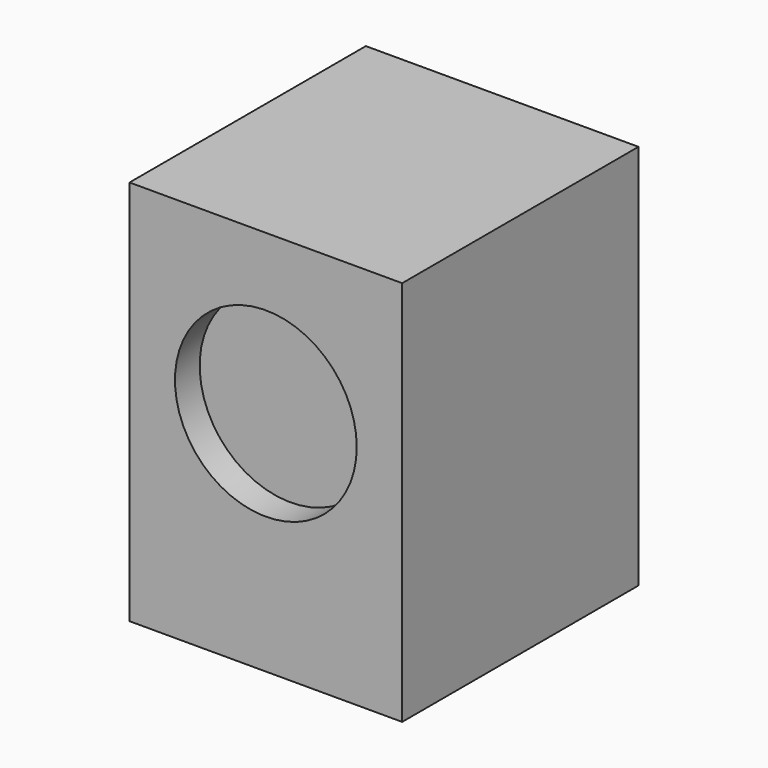
from build123d import *

# Parameters (mm, degrees)
F0_W     = 600
F0_H     = 650
F1_DEPTH = 850
F2_R     = 200
F3_DEPTH = 68


with BuildPart() as f1:
    # F0 (on Top) → F1 (new body)
    with BuildSketch(Plane.XY):
        Rectangle(F0_W, F0_H)
    extrude(amount=F1_DEPTH)

    # F2 (on face) → F3 (cut)
    with BuildSketch(Plane.XZ.offset(325)):
        with Locations((0, 500)):
            Circle(F2_R)
    extrude(amount=-F3_DEPTH, mode=Mode.SUBTRACT)


solid = f1.part
